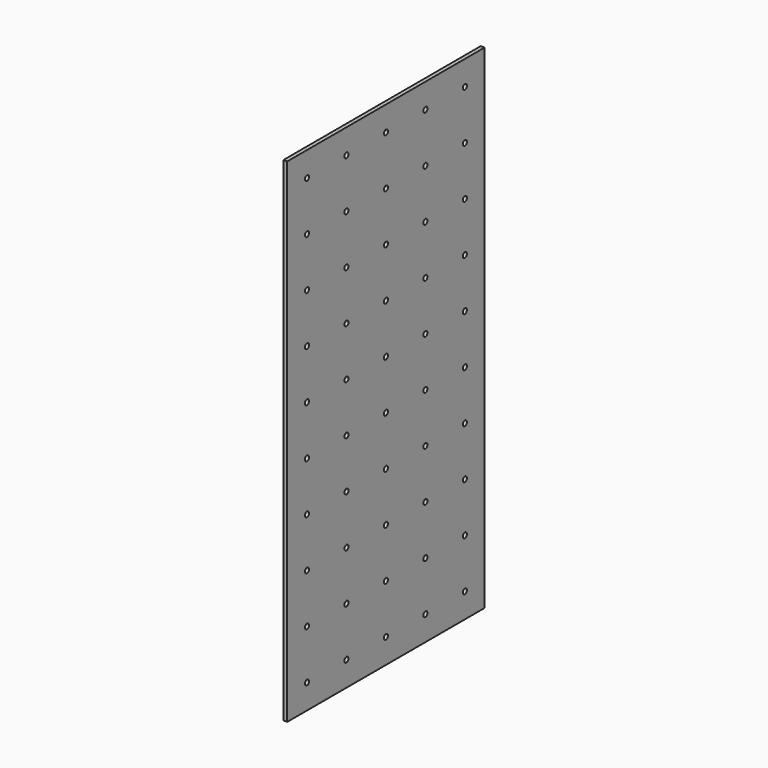
from build123d import *

# Parameters (mm, degrees)
F0_W          = 1219.2
F0_H          = 2438.4
F1_DEPTH      = 19.05
F2_R          = 12.7
F3_DEPTH      = 381
F3_DEPTH_BACK = 25.4


with BuildPart() as f1:
    # F0 (on Right) → F1 (new body)
    with BuildSketch(Plane.YZ):
        with Locations((609.6, 1219.2)):
            Rectangle(F0_W, F0_H)
    extrude(amount=F1_DEPTH)

    # F2 (on face) → F3 (cut, two sides)
    with BuildSketch(Plane(origin=(0, 0, 0), x_dir=(0, -1, 0), z_dir=(-1, 0, 0))) as f3_sk:
        with Locations((-1097.28, 2316.48)):
            Circle(F2_R)
        with Locations((-1097.28, 2072.64)):
            Circle(F2_R)
        with Locations((-1097.28, 1828.8)):
            Circle(F2_R)
        with Locations((-1097.28, 1584.96)):
            Circle(F2_R)
        with Locations((-1097.28, 1341.12)):
            Circle(F2_R)
        with Locations((-1097.28, 1097.28)):
            Circle(F2_R)
        with Locations((-1097.28, 853.44)):
            Circle(F2_R)
        with Locations((-853.44, 2316.48)):
            Circle(F2_R)
        with Locations((-853.44, 2072.64)):
            Circle(F2_R)
        with Locations((-853.44, 1828.8)):
            Circle(F2_R)
        with Locations((-853.44, 1584.96)):
            Circle(F2_R)
        with Locations((-853.44, 1341.12)):
            Circle(F2_R)
        with Locations((-853.44, 1097.28)):
            Circle(F2_R)
        with Locations((-853.44, 853.44)):
            Circle(F2_R)
        with Locations((-609.6, 2316.48)):
            Circle(F2_R)
        with Locations((-609.6, 2072.64)):
            Circle(F2_R)
        with Locations((-609.6, 1828.8)):
            Circle(F2_R)
        with Locations((-609.6, 1584.96)):
            Circle(F2_R)
        with Locations((-609.6, 1341.12)):
            Circle(F2_R)
        with Locations((-609.6, 1097.28)):
            Circle(F2_R)
        with Locations((-609.6, 853.44)):
            Circle(F2_R)
        with Locations((-365.76, 2316.48)):
            Circle(F2_R)
        with Locations((-365.76, 2072.64)):
            Circle(F2_R)
        with Locations((-365.76, 1828.8)):
            Circle(F2_R)
        with Locations((-365.76, 1584.96)):
            Circle(F2_R)
        with Locations((-365.76, 1341.12)):
            Circle(F2_R)
        with Locations((-365.76, 1097.28)):
            Circle(F2_R)
        with Locations((-365.76, 853.44)):
            Circle(F2_R)
        with Locations((-1097.28, 609.6)):
            Circle(F2_R)
        with Locations((-853.44, 609.6)):
            Circle(F2_R)
        with Locations((-609.6, 609.6)):
            Circle(F2_R)
        with Locations((-365.76, 609.6)):
            Circle(F2_R)
        with Locations((-121.92, 2316.48)):
            Circle(F2_R)
        with Locations((-121.92, 2072.64)):
            Circle(F2_R)
        with Locations((-121.92, 1828.8)):
            Circle(F2_R)
        with Locations((-121.92, 1584.96)):
            Circle(F2_R)
        with Locations((-121.92, 1341.12)):
            Circle(F2_R)
        with Locations((-121.92, 1097.28)):
            Circle(F2_R)
        with Locations((-121.92, 853.44)):
            Circle(F2_R)
        with Locations((-121.92, 609.6)):
            Circle(F2_R)
        with Locations((-1097.28, 365.76)):
            Circle(F2_R)
        with Locations((-1097.28, 121.92)):
            Circle(F2_R)
        with Locations((-853.44, 365.76)):
            Circle(F2_R)
        with Locations((-853.44, 121.92)):
            Circle(F2_R)
        with Locations((-609.6, 365.76)):
            Circle(F2_R)
        with Locations((-609.6, 121.92)):
            Circle(F2_R)
        with Locations((-365.76, 365.76)):
            Circle(F2_R)
        with Locations((-365.76, 121.92)):
            Circle(F2_R)
        with Locations((-121.92, 365.76)):
            Circle(F2_R)
        with Locations((-121.92, 121.92)):
            Circle(F2_R)
    extrude(amount=F3_DEPTH, mode=Mode.SUBTRACT)
    extrude(f3_sk.sketch, amount=-F3_DEPTH_BACK, mode=Mode.SUBTRACT)


solid = f1.part
